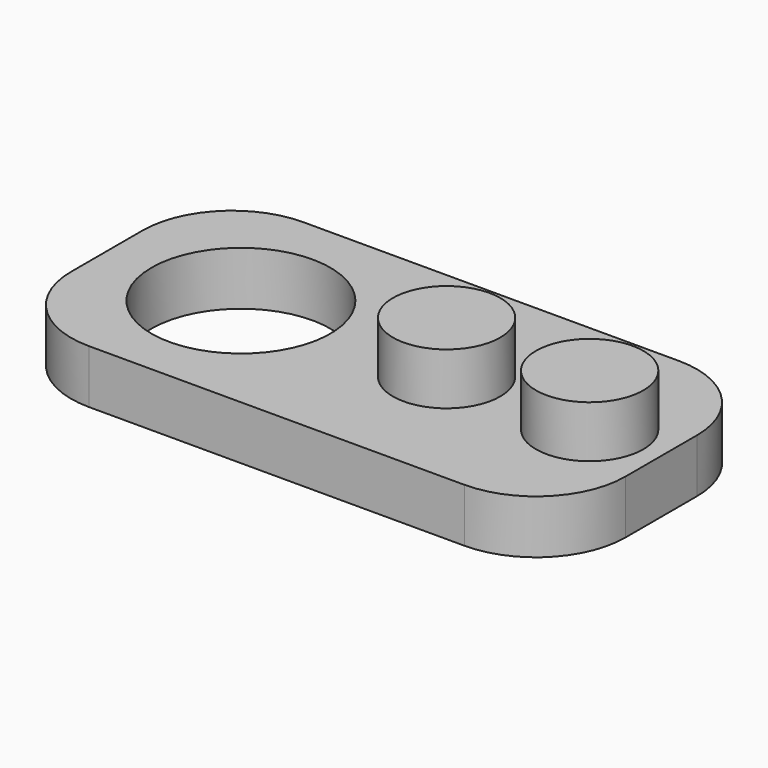
from build123d import *

# Parameters (mm, degrees)
F0_W     = 16
F0_H     = 15
F0_R     = 3
F1_DEPTH = 3
F2_DEPTH = 5.9
F3_R     = 5


with BuildPart() as f1:
    # F0 (on Top) → F1 (new body)
    with BuildSketch(Plane.XY):
        Polygon((-23, -7.5), (-8, -7.5), (-8, 7.5), (-23, 7.5), (-23, 0), align=None)
        with BuildLine():
            ThreePointArc((-10.5, 0), (-15.5, -5), (-20.5, 0))
            ThreePointArc((-20.5, 0), (-15.5, 5), (-10.5, 0))
        make_face(mode=Mode.SUBTRACT)
        Rectangle(F0_W, F0_H)
        with Locations((-4, 0)):
            Circle(F0_R, mode=Mode.SUBTRACT)
        with BuildLine():
            ThreePointArc((7, 0), (4, -3), (1, 0))
            ThreePointArc((1, 0), (4, 3), (7, 0))
        make_face(mode=Mode.SUBTRACT)
    extrude(amount=F1_DEPTH)

    # F0 (on Top) → F2 (join)
    with BuildSketch(Plane.XY):
        with Locations((-4, 0)):
            Circle(F0_R)
        with BuildLine():
            ThreePointArc((7, 0), (4, 3), (1, 0))
            ThreePointArc((1, 0), (4, -3), (7, 0))
        make_face()
    extrude(amount=F2_DEPTH)

    # F3
    f3_edges = [f1.edges().sort_by_distance(p)[0] for p in [
        (-23, -7.5, 1.5),
        (8, -7.5, 1.5),
        (-23, 7.5, 1.5),
        (8, 7.5, 1.5),
    ]]
    fillet(f3_edges, radius=F3_R)


with BuildPart() as f4_1:
    # F4: copy of F1
    add(f1.part)


solid = Compound([f1.part, f4_1.part])
